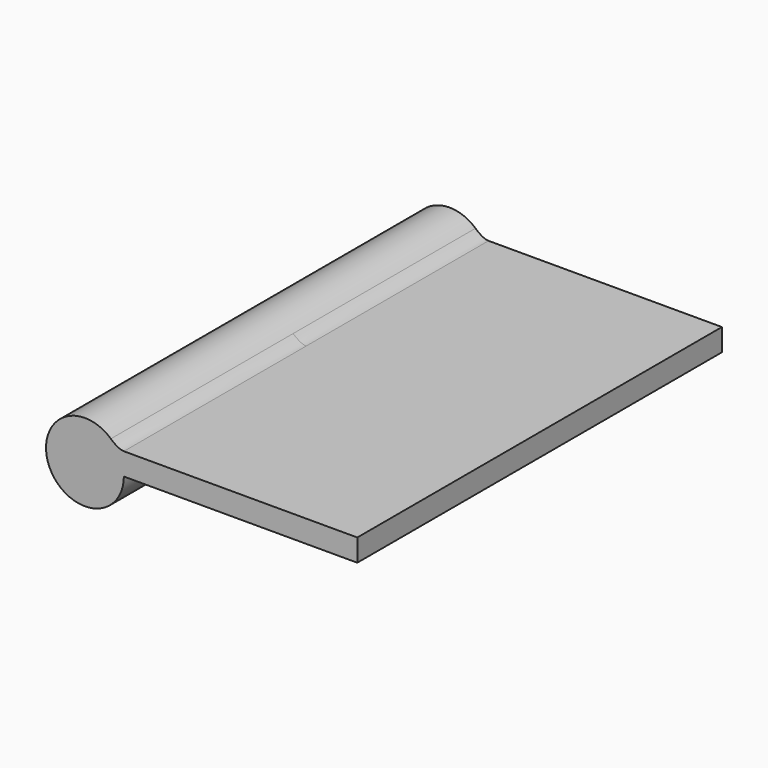
from build123d import *

# Parameters (mm, degrees)
F0_W     = 21
F0_H     = 2
F1_DEPTH = 20.5


with BuildPart() as f1:
    # F0 (on Front) → F1 (new body, symmetric)
    with BuildSketch(Plane.XZ):
        Rectangle(F0_W, F0_H)
        with BuildLine():
            ThreePointArc((-11.667242, 1.609261), (-10.805109, 0.429222), (-10.5, -1))
            Line((-10.5, -1), (-10.5, 1))
            add(Edge.make_bspline(
                [(-10.5, 1), (-10.900594, 1), (-11.368599, 1.342264), (-11.667242, 1.609261)],
                knots=[0, 0, 0, 0, 1.316683, 1.316683, 1.316683, 1.316683], degree=3))
        make_face()
        with BuildLine():
            ThreePointArc((-11.667242, 1.609261), (-17.194891, -2.429222), (-10.5, -1))
            ThreePointArc((-10.5, -1), (-10.805109, 0.429222), (-11.667242, 1.609261))
        make_face()
    extrude(amount=F1_DEPTH, both=True)


solid = f1.part
